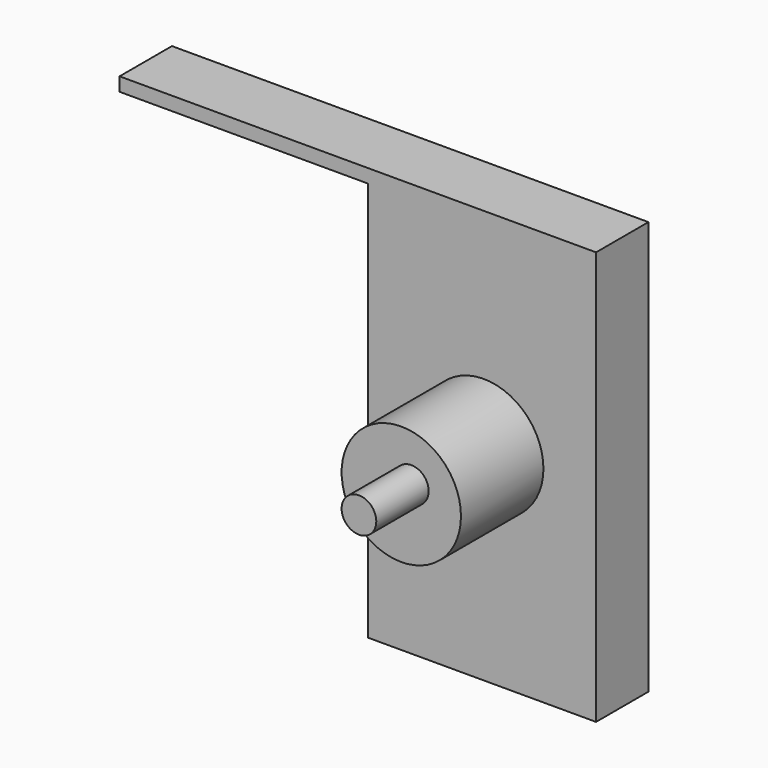
from build123d import *

# Parameters (mm, degrees)
F0_W     = 96.46225
F0_H     = 5.296454
F0_W_2   = 88.428333
F0_H_2   = 155.114882
F1_DEPTH = 25.4
F2_R     = 23.151618
F3_DEPTH = 65.394416
F4_R     = 6.73018
F5_DEPTH = 25.4


with BuildPart() as f1:
    # F0 (on Front) → F1 (new body)
    with BuildSketch(Plane.XZ):
        with Locations((-48.231125, 98.453775)):
            Rectangle(F0_W, F0_H)
        with Locations((44.214166, 98.453775)):
            Rectangle(F0_W_2, F0_H)
        with Locations((44.214166, 18.248107)):
            Rectangle(F0_W_2, F0_H_2)
    extrude(amount=F1_DEPTH)

    # F2 (on Front) → F3 (join)
    with BuildSketch(Plane.XZ):
        with Locations((44.85137, 20.544406)):
            Circle(F2_R)
    extrude(amount=F3_DEPTH)

    # F4 (on face) → F5 (join)
    with BuildSketch(Plane.XZ.offset(65.394416)):
        with Locations((48.735432, 25.047414)):
            Circle(F4_R)
    extrude(amount=F5_DEPTH)


solid = f1.part
